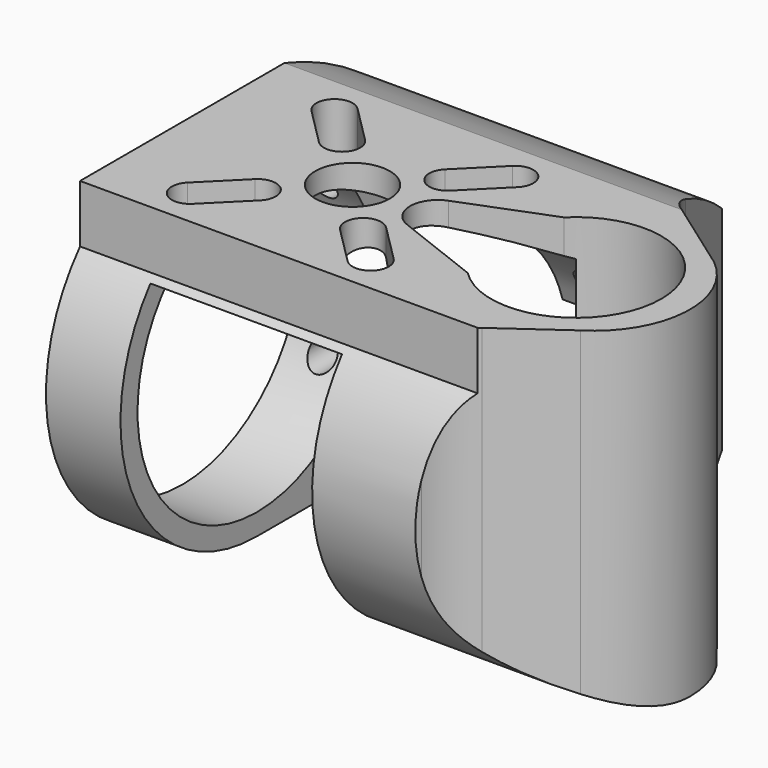
from build123d import *

# Parameters (mm, degrees)
SKETCH010_AS_DRAWN_R                      = 1.3
EXTRUDE006_DEPTH                          = 10
EXTRUDE006_ONTO_SKETCH010_ROLL_ANGLE      = 90
EXTRUDE006_ONTO_SKETCH010_PLACEMENT_ANGLE = 180
SKETCH009_R                               = 3.5
EXTRUDE005_DEPTH                          = 20
EXTRUDE004_DEPTH                          = 50
SKETCH004_AS_DRAWN_R                      = 3.5
EXTRUDE003_DEPTH                          = 16
EXTRUDE003_ONTO_SKETCH004_PLACEMENT_ANGLE = -90
SKETCH002_AS_DRAWN_W                      = 18
SKETCH002_AS_DRAWN_H                      = 55
EXTRUDE002_DEPTH                          = 50
EXTRUDE002_ONTO_SKETCH002_ROLL_ANGLE      = 90
EXTRUDE002_ONTO_SKETCH002_PLACEMENT_ANGLE = 180
SKETCH001_R                               = 2
EXTRUDE001_DEPTH                          = 72
EXTRUDE_DEPTH                             = 32
CYLINDER_R                                = 14
CYLINDER_DEPTH                            = 32
CYLINDER_PITCH_ANGLE                      = 90
BOX_W                                     = 50
BOX_H                                     = 46
BOX_DEPTH                                 = 32


with BuildPart() as extrude006:
    # Sketch010 as drawn → Extrude006 (new)
    with BuildSketch(Plane.XY):
        with Locations((-28.5, 7)):
            Circle(SKETCH010_AS_DRAWN_R)
        with Locations((-28.5, -7)):
            Circle(SKETCH010_AS_DRAWN_R)
        with Locations((-3.5, -7)):
            Circle(SKETCH010_AS_DRAWN_R)
        with Locations((-3.5, 7)):
            Circle(SKETCH010_AS_DRAWN_R)
    extrude(amount=-EXTRUDE006_DEPTH)


with BuildPart() as extrude006_1:
    # Extrude006 onto Sketch010 roll: moved
    add(extrude006.part.rotate(Axis((0, 0, 0), (1, 0, 0)), EXTRUDE006_ONTO_SKETCH010_ROLL_ANGLE))


with BuildPart() as extrude006_2:
    # Extrude006 onto Sketch010 placement: moved
    add(extrude006_1.part.moved(Location((0, 16.416408, 0))).rotate(Axis((0, 16.416408, 0), (0, 0, 1)), EXTRUDE006_ONTO_SKETCH010_PLACEMENT_ANGLE))


with BuildPart() as extrude005:
    # Sketch009 → Extrude005 (new body)
    with BuildSketch(Plane(origin=(0, 0, -16), x_dir=(1, 0, 0), z_dir=(0, 0, -1))):
        with Locations((42.5, 0)):
            Circle(SKETCH009_R)
    extrude(amount=-EXTRUDE005_DEPTH)


with BuildPart() as outer_cut_extrude:
    # Sketch008 → Extrude004 (new body)
    with BuildSketch(Plane(origin=(10, 0, 17), x_dir=(1, 0, 0), z_dir=(0, 0, 1))):
        with BuildLine():
            ThreePointArc((33.480915, -7.618994), (37.690202, 0), (33.480915, 7.618994))
            Line((33.480915, 7.618994), (27.605237, 11.802835))
            ThreePointArc((24.855644, 15.491629), (25.940852, 13.431375), (27.605237, 11.802835))
            Line((20.119941, 29.359654), (24.855644, 15.491629))
            Line((58.023553, 29.359654), (20.119941, 29.359654))
            Line((58.023553, -29.359654), (58.023553, 29.359654))
            Line((20.119941, -29.359654), (58.023553, -29.359654))
            Line((24.855644, -15.491629), (20.119941, -29.359654))
            ThreePointArc((27.605237, -11.802835), (25.940852, -13.431375), (24.855644, -15.491629))
            Line((33.480915, -7.618994), (27.605237, -11.802835))
        make_face()
    extrude(amount=-EXTRUDE004_DEPTH)


with BuildPart() as motor_mount_sketch_extrude:
    # Sketch004 as drawn → Extrude003 (new)
    with BuildSketch(Plane.XY):
        with Locations((0, 15.99875)):
            Circle(SKETCH004_AS_DRAWN_R)
        with BuildLine():
            ThreePointArc((-6.151829, 19.746416), (-3.747666, 19.746416), (-3.747666, 22.150579))
            Line((-3.747666, 22.150579), (-7.2832, 25.686113))
            ThreePointArc((-7.2832, 25.686113), (-9.687363, 25.686113), (-9.687363, 23.28195))
            Line((-6.151829, 19.746416), (-9.687363, 23.28195))
        make_face()
        with BuildLine():
            ThreePointArc((-3.747666, 9.846921), (-3.747666, 12.251084), (-6.151829, 12.251084))
            Line((-6.151829, 12.251084), (-9.687363, 8.71555))
            ThreePointArc((-9.687363, 8.71555), (-9.687363, 6.311387), (-7.2832, 6.311387))
            Line((-3.747666, 9.846921), (-7.2832, 6.311387))
        make_face()
        with BuildLine():
            ThreePointArc((6.151829, 12.251084), (3.747666, 12.251084), (3.747666, 9.846921))
            Line((3.747666, 9.846921), (7.2832, 6.311387))
            ThreePointArc((7.2832, 6.311387), (9.687363, 6.311387), (9.687363, 8.71555))
            Line((6.151829, 12.251084), (9.687363, 8.71555))
        make_face()
        with BuildLine():
            ThreePointArc((3.747666, 22.150579), (3.747666, 19.746416), (6.151829, 19.746416))
            Line((6.151829, 19.746416), (9.687363, 23.28195))
            ThreePointArc((9.687363, 23.28195), (9.687363, 25.686113), (7.2832, 25.686113))
            Line((3.747666, 22.150579), (7.2832, 25.686113))
        make_face()
        with BuildLine():
            Line((-2.422075, 23.053471), (-5.656854, 31.341896))
            ThreePointArc((5.656854, 31.341896), (0, 44.99875), (-5.656854, 31.341896))
            Line((2.422075, 23.053471), (5.656854, 31.341896))
            ThreePointArc((-2.422075, 23.053471), (0, 21.39875), (2.422075, 23.053471))
        make_face()
    extrude(amount=-EXTRUDE003_DEPTH)


with BuildPart() as motor_mount_sketch_extrude_1:
    # Extrude003 onto Sketch004 placement: moved
    add(motor_mount_sketch_extrude.part.moved(Location((0, 0, 16))).rotate(Axis((0, 0, 16), (0, 0, 1)), EXTRUDE003_ONTO_SKETCH004_PLACEMENT_ANGLE))


with BuildPart() as extrude002:
    # Sketch002 as drawn → Extrude002 (new)
    with BuildSketch(Plane.XY):
        with Locations((-16, -17.5)):
            Rectangle(SKETCH002_AS_DRAWN_W, SKETCH002_AS_DRAWN_H)
    extrude(amount=-EXTRUDE002_DEPTH)


with BuildPart() as extrude002_1:
    # Extrude002 onto Sketch002 roll: moved
    add(extrude002.part.rotate(Axis((0, 0, 0), (1, 0, 0)), EXTRUDE002_ONTO_SKETCH002_ROLL_ANGLE))


with BuildPart() as extrude002_2:
    # Extrude002 onto Sketch002 placement: moved
    add(extrude002_1.part.moved(Location((0, 23, 0))).rotate(Axis((0, 23, 0), (0, 0, 1)), EXTRUDE002_ONTO_SKETCH002_PLACEMENT_ANGLE))


with BuildPart() as outer_tube_profile_extrude:
    # Sketch001 → Extrude001 (new body)
    with BuildSketch(Plane(origin=(0, 0, 0), x_dir=(0, -1, 0), z_dir=(-1, 0, 0))):
        with Locations((-13.5, 11.5)):
            Circle(SKETCH001_R)
        with Locations((-13.5, -11.5)):
            Circle(SKETCH001_R)
        with BuildLine():
            ThreePointArc((-12, 16), (-17.78197, 13.516944), (-23, 10))
            Line((-23, 10), (-23, -10))
            ThreePointArc((-23, -10), (-12.874781, -14.896864), (-1.681818, -16))
            Line((-1.681818, -16), (-1.681818, -36))
            Line((-1.681818, -36), (-35.681818, -36))
            Line((-35.681818, -36), (-35.681818, 36))
            Line((-35.681818, 36), (-12, 36))
            Line((-12, 36), (-12, 16))
        make_face()
        with BuildLine():
            ThreePointArc((0, -16), (14.583005, -6.583005), (12, 10.583005))
            Line((12, 10.583005), (12, 36))
            Line((12, 36), (50, 36))
            Line((50, 36), (50, -36))
            Line((50, -36), (0, -36))
            Line((0, -36), (0, -16))
        make_face()
    extrude(amount=-EXTRUDE001_DEPTH)


with BuildPart() as tube_fix_extrude:
    # Sketch → Extrude (new body)
    with BuildSketch(Plane(origin=(0, 0, 0), x_dir=(0, -1, 0), z_dir=(-1, 0, 0))):
        with BuildLine():
            Line((-16.416408, 4), (-13.416408, 4))
            ThreePointArc((-13.416408, 4), (-14, 0), (-13.416408, -4))
            Line((-16.416408, -4), (-13.416408, -4))
            Line((-16.416408, -4), (-16.416408, -10))
            Line((-16.416408, -10), (-41.416408, -10))
            Line((-41.416408, -10), (-41.416408, 10))
            Line((-41.416408, 10), (-16.416408, 10))
            Line((-16.416408, 10), (-16.416408, 4))
        make_face()
    extrude(amount=-EXTRUDE_DEPTH)


with BuildPart() as cylinder:
    # Cylinder → Cylinder (new body)
    with BuildSketch(Plane.XY):
        Circle(CYLINDER_R)
    extrude(amount=CYLINDER_DEPTH)


with BuildPart() as cylinder_1:
    # Cylinder pitch: moved
    add(cylinder.part.rotate(Axis((0, 0, 0), (0, 1, 0)), CYLINDER_PITCH_ANGLE))


with BuildPart() as cylinder_2:
    # Cylinder placement: moved
    add(cylinder_1.part)


with BuildPart() as cut007:
    # Box → Box (new body)
    with BuildSketch(Plane(origin=(0, -23, -16), x_dir=(1, 0, 0), z_dir=(0, 0, 1))):
        with Locations((25, 23)):
            Rectangle(BOX_W, BOX_H)
    extrude(amount=BOX_DEPTH)

    # Cut: cut Cylinder
    add(cylinder_2.part, mode=Mode.SUBTRACT)

    # Cut001: cut Tube_Fix_Extrude
    add(tube_fix_extrude.part, mode=Mode.SUBTRACT)

    # Cut002: cut Outer_tube_profile_extrude
    add(outer_tube_profile_extrude.part, mode=Mode.SUBTRACT)

    # Cut003: cut Extrude002
    add(extrude002_2.part, mode=Mode.SUBTRACT)

    # Cut004: cut motor_mount_sketch_extrude
    add(motor_mount_sketch_extrude_1.part, mode=Mode.SUBTRACT)

    # Cut005: cut outer_cut_extrude
    add(outer_cut_extrude.part, mode=Mode.SUBTRACT)

    # Cut006: cut Extrude005
    add(extrude005.part, mode=Mode.SUBTRACT)

    # Cut007: cut Extrude006
    add(extrude006_2.part, mode=Mode.SUBTRACT)


solid = cut007.part
